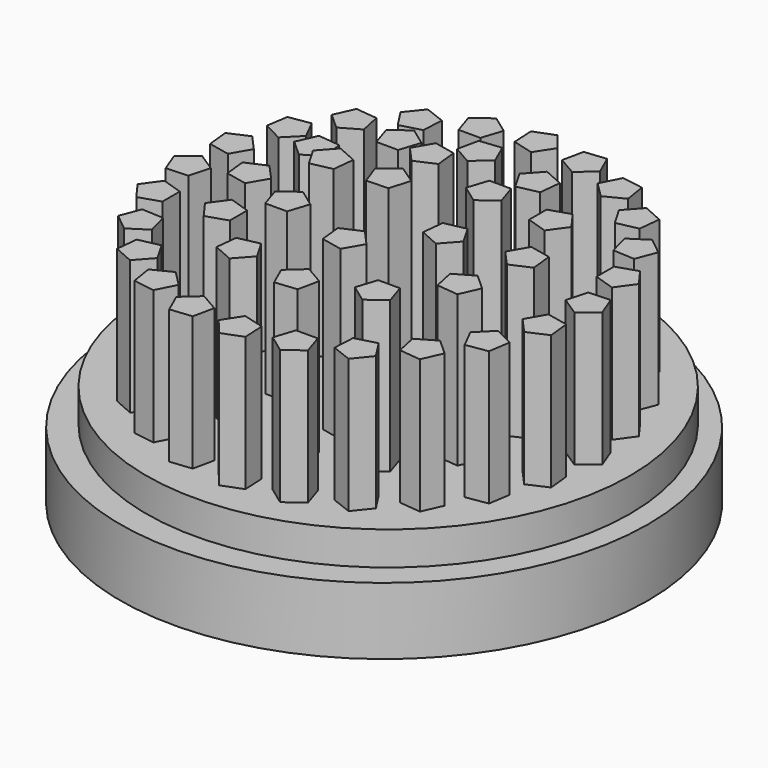
from build123d import *

# Parameters (mm, degrees)
F0_R     = 199.9965426082
F0_R_2   = 183.2680311813
F1_DEPTH = 76.2
F2_DEPTH = 25.4
F3_DEPTH = 101.6
F4_DEPTH = 114.3
F5_DEPTH = 127
F6_DEPTH = 139.7


with BuildPart() as f1:
    # F0 (on Top) → F1 (new body)
    with BuildSketch(Plane.XY):
        with Locations((42.672, 37.5409610569)):
            Circle(F0_R)
        with Locations((42.672, 41.402)):
            Circle(F0_R_2, mode=Mode.SUBTRACT)
        with Locations((42.672, 41.402)):
            Circle(F0_R_2)
        Polygon((-55.7917504575, -80.1388289602), (-70.8706592172, -73.4252662373), (-69.1453207053, -57.0097668285), (-53.0000941032, -53.5779929746), (-44.7471338189, -67.8725394999), align=None, mode=Mode.SUBTRACT)
        Polygon((-20.9795982277, -101.4817195119), (-37.2823035241, -98.8996246577), (-39.8643983783, -82.5969193613), (-25.1575154639, -75.1033882337), (-13.4860671001, -86.7748365975), align=None, mode=Mode.SUBTRACT)
        Polygon((18.170305232, -113.0873207053), (1.7548058233, -114.8126592172), (-4.9587568996, -99.7337504575), (7.3075325607, -88.6891338189), (21.602079086, -96.9420941032), align=None, mode=Mode.SUBTRACT)
        Polygon((-83.8937608126, -50.5131317706), (-96.7212703227, -40.1256193837), (-90.8060774131, -24.7160150196), (-74.322777635, -25.5798681562), (-70.0507310349, -41.5233631201), align=None, mode=Mode.SUBTRACT)
        Polygon((-103.3705237282, -14.6235702478), (-113.0724604139, -1.27), (-103.3705237282, 12.0835702478), (-87.6724604139, 6.9829602843), (-87.6724604139, -9.5229602843), align=None, mode=Mode.SUBTRACT)
        Polygon((-41.8367113977, -27.692685827), (-51.5386480835, -14.3391155791), (-41.8367113977, -0.9855453313), (-26.1386480835, -6.0861552948), (-26.1386480835, -22.5920758634), align=None, mode=Mode.SUBTRACT)
        Polygon((4.032652002, -60.6901088915), (-11.0462567577, -53.9765461686), (-9.3209182459, -37.5610467598), (6.8243083562, -34.1292729059), (15.0772686406, -48.4238194312), align=None, mode=Mode.SUBTRACT)
        Polygon((-65.062033825, 23.8186025062), (-66.7873723369, 40.2341019149), (-51.7084635772, 46.9476646379), (-40.6638469386, 34.6813751776), (-48.9168072229, 20.3868286523), align=None, mode=Mode.SUBTRACT)
        Polygon((13.3535702478, 4.3388379885), (8.2529602843, -11.3592253257), (-8.2529602843, -11.3592253257), (-13.3535702478, 4.3388379885), (0, 14.0407746743), align=None, mode=Mode.SUBTRACT)
        Polygon((58.9899586993, -114.1647299983), (43.5803543351, -120.0799229079), (33.1928419482, -107.2524133978), (42.1826105987, -93.4093836201), (58.1261055626, -97.6814302202), align=None, mode=Mode.SUBTRACT)
        Polygon((98.6975702478, -104.6405237282), (85.344, -114.3424604139), (71.9904297522, -104.6405237282), (77.0910397157, -88.9424604139), (93.5969602843, -88.9424604139), align=None, mode=Mode.SUBTRACT)
        Polygon((134.5871317706, -85.1637608126), (124.1996193837, -97.9912703227), (108.7900150196, -92.0760774131), (109.6538681562, -75.592777635), (125.5973631201, -71.3207310349), align=None, mode=Mode.SUBTRACT)
        Polygon((60.2553974938, -66.332033825), (43.8398980851, -68.0573723369), (37.1263353621, -52.9784635772), (49.3926248224, -41.9338469386), (63.6871713477, -50.1868072229), align=None, mode=Mode.SUBTRACT)
        Polygon((62.9020813247, -29.0809219558), (46.7568547226, -25.6491481019), (45.0315162107, -9.2336486931), (60.1104249704, -2.5200859702), (71.155041609, -14.7863754305), align=None, mode=Mode.SUBTRACT)
        Polygon((111.766685827, -43.1067113977), (98.4131155791, -52.8086480835), (85.0595453313, -43.1067113977), (90.1601552948, -27.4086480835), (106.6660758634, -27.4086480835), align=None, mode=Mode.SUBTRACT)
        Polygon((144.7641088915, 2.762652002), (138.0505461686, -12.3162567577), (121.6350467598, -10.5909182459), (118.2032729059, 5.5543083562), (132.4978194312, 13.8072686406), align=None, mode=Mode.SUBTRACT)
        Polygon((113.827041609, 23.6803033699), (102.7824249704, 11.4140139096), (87.7035162107, 18.1275766326), (89.4288547226, 34.5430760413), (105.5740813247, 37.9748498952), align=None, mode=Mode.SUBTRACT)
        Polygon((164.2128289602, -57.0617504575), (157.4992662373, -72.1406592172), (141.0837668285, -70.4153207053), (137.6519929746, -54.2700941032), (151.9465394999, -46.0171338189), align=None, mode=Mode.SUBTRACT)
        Polygon((185.5557195119, -22.2495982277), (182.9736246577, -38.5523035241), (166.6709193613, -41.1343983783), (159.1773882337, -26.4275154639), (170.8488365975, -14.7560671001), align=None, mode=Mode.SUBTRACT)
        Polygon((197.1613207053, 16.900305232), (198.8866592172, 0.4848058233), (183.8077504575, -6.2287568996), (172.7631338189, 6.0375325607), (181.0160941032, 20.332079086), align=None, mode=Mode.SUBTRACT)
        Polygon((-112.8947299983, 25.0840413007), (-118.8099229079, 40.4936456649), (-105.9824133978, 50.8811580518), (-92.1393836201, 41.8913894013), (-96.4114302202, 25.9478944374), align=None, mode=Mode.SUBTRACT)
        Polygon((-111.8173207053, 65.903694768), (-113.5426592172, 82.3191941767), (-98.4637504575, 89.0327568996), (-87.4191338189, 76.7664674393), (-95.6720941032, 62.471920914), align=None, mode=Mode.SUBTRACT)
        Polygon((-100.2117195119, 105.0535982277), (-97.6296246577, 121.3563035241), (-81.3269193613, 123.9383983783), (-73.8333882337, 109.2315154639), (-85.5048365975, 97.5600671001), align=None, mode=Mode.SUBTRACT)
        Polygon((-28.483041609, 59.1236966301), (-17.4384249704, 71.3899860904), (-2.3595162107, 64.6764233674), (-4.0848547226, 48.2609239587), (-20.2300813247, 44.8291501048), align=None, mode=Mode.SUBTRACT)
        Polygon((-59.4201088915, 80.041347998), (-52.7065461686, 95.1202567577), (-36.2910467598, 93.3949182459), (-32.8592729059, 77.2496916438), (-47.1538194312, 68.9967313594), align=None, mode=Mode.SUBTRACT)
        Polygon((0.2844546687, 125.9107113977), (-4.8161552948, 110.2126480835), (-21.3220758634, 110.2126480835), (-26.422685827, 125.9107113977), (-13.0691155791, 135.6126480835), align=None, mode=Mode.SUBTRACT)
        Polygon((40.3124837893, 92.0376486931), (25.2335750296, 85.3240859702), (14.188958391, 97.5903754305), (22.4419186753, 111.8849219558), (38.5871452774, 108.4531481019), align=None, mode=Mode.SUBTRACT)
        Polygon((-78.8688289602, 139.8657504575), (-72.1552662373, 154.9446592172), (-55.7397668285, 153.2193207053), (-52.3079929746, 137.0740941032), (-66.6025394999, 128.8211338189), align=None, mode=Mode.SUBTRACT)
        Polygon((-49.2431317706, 167.9677608126), (-38.8556193837, 180.7952703227), (-23.4460150196, 174.8800774131), (-24.3098681562, 158.396777635), (-40.2533631201, 154.1247310349), align=None, mode=Mode.SUBTRACT)
        Polygon((25.0886025062, 149.136033825), (41.5041019149, 150.8613723369), (48.2176646379, 135.7824635772), (35.9513751776, 124.7378469386), (21.6568286523, 132.9908072229), align=None, mode=Mode.SUBTRACT)
        Polygon((13.3535702478, 187.4445237282), (8.2529602843, 171.7464604139), (-8.2529602843, 171.7464604139), (-13.3535702478, 187.4445237282), (0, 197.1464604139), align=None, mode=Mode.SUBTRACT)
        Polygon((26.3540413007, 196.9687299983), (41.7636456649, 202.8839229079), (52.1511580518, 190.0564133978), (43.1613894013, 176.2133836201), (27.2178944374, 180.4854302202), align=None, mode=Mode.SUBTRACT)
        Polygon((29.7234064165, 45.158201225), (42.7302493227, 55.3202606339), (56.4142776437, 46.0902669867), (51.8646293429, 30.2237577879), (35.3687637351, 29.6477094674), align=None, mode=Mode.SUBTRACT)
        Polygon((93.5969602843, 94.1632253257), (98.6975702478, 78.4651620115), (85.344, 68.7632253257), (71.9904297522, 78.4651620115), (77.0910397157, 94.1632253257), align=None, mode=Mode.SUBTRACT)
        Polygon((150.406033825, 58.9853974938), (152.1313723369, 42.5698980851), (137.0524635772, 35.8563353621), (126.0078469386, 48.1226248224), (134.2608072229, 62.4171713477), align=None, mode=Mode.SUBTRACT)
        Polygon((81.311347998, 143.4941088915), (96.3902567577, 136.7805461686), (94.6649182459, 120.3650467598), (78.5196916438, 116.9332729059), (70.2667313594, 131.2278194312), align=None, mode=Mode.SUBTRACT)
        Polygon((127.1807113977, 110.496685827), (136.8826480835, 97.1431155791), (127.1807113977, 83.7895453313), (111.4826480835, 88.8901552948), (111.4826480835, 105.3960758634), align=None, mode=Mode.SUBTRACT)
        Polygon((198.2387299983, 57.7199586993), (204.1539229079, 42.3103543351), (191.3264133978, 31.9228419482), (177.4833836201, 40.9126105987), (181.7554302202, 56.8561055626), align=None, mode=Mode.SUBTRACT)
        Polygon((188.7145237282, 97.4275702478), (198.4164604139, 84.074), (188.7145237282, 70.7204297522), (173.0164604139, 75.8210397157), (173.0164604139, 92.3269602843), align=None, mode=Mode.SUBTRACT)
        Polygon((169.2377608126, 133.3171317706), (182.0652703227, 122.9296193837), (176.1500774131, 107.5200150196), (159.666777635, 108.3838681562), (155.3947310349, 124.3273631201), align=None, mode=Mode.SUBTRACT)
        Polygon((67.173694768, 195.8913207053), (83.5891941767, 197.6166592172), (90.3027568996, 182.5377504575), (78.0364674393, 171.4931338189), (63.741920914, 179.7460941032), align=None, mode=Mode.SUBTRACT)
        Polygon((106.3235982277, 184.2857195119), (122.6263035241, 181.7036246577), (125.2083983783, 165.4009193613), (110.5015154639, 157.9073882337), (98.8300671001, 169.5788365975), align=None, mode=Mode.SUBTRACT)
        Polygon((141.1357504575, 162.9428289602), (156.2146592172, 156.2292662373), (154.4893207053, 139.8137668285), (138.3440941032, 136.3819929746), (130.0911338189, 150.6765394999), align=None, mode=Mode.SUBTRACT)
        Polygon((48.2176646379, 135.7824635772), (41.5041019149, 150.8613723369), (25.0886025062, 149.136033825), (21.6568286523, 132.9908072229), (35.9513751776, 124.7378469386), align=None)
        Polygon((94.6649182459, 120.3650467598), (96.3902567577, 136.7805461686), (81.311347998, 143.4941088915), (70.2667313594, 131.2278194312), (78.5196916438, 116.9332729059), align=None)
        Polygon((14.188958391, 97.5903754305), (25.2335750296, 85.3240859702), (40.3124837893, 92.0376486931), (38.5871452774, 108.4531481019), (22.4419186753, 111.8849219558), align=None)
        Polygon((-21.3220758634, 110.2126480835), (-4.8161552948, 110.2126480835), (0.2844546687, 125.9107113977), (-13.0691155791, 135.6126480835), (-26.422685827, 125.9107113977), align=None)
        Polygon((-36.2910467598, 93.3949182459), (-52.7065461686, 95.1202567577), (-59.4201088915, 80.041347998), (-47.1538194312, 68.9967313594), (-32.8592729059, 77.2496916438), align=None)
        Polygon((-51.7084635772, 46.9476646379), (-66.7873723369, 40.2341019149), (-65.062033825, 23.8186025062), (-48.9168072229, 20.3868286523), (-40.6638469386, 34.6813751776), align=None)
        Polygon((-2.3595162107, 64.6764233674), (-17.4384249704, 71.3899860904), (-28.483041609, 59.1236966301), (-20.2300813247, 44.8291501048), (-4.0848547226, 48.2609239587), align=None)
        Polygon((56.4142776437, 46.0902669867), (42.7302493227, 55.3202606339), (29.7234064165, 45.158201225), (35.3687637351, 29.6477094674), (51.8646293429, 30.2237577879), align=None)
        Polygon((-8.2529602843, -11.3592253257), (8.2529602843, -11.3592253257), (13.3535702478, 4.3388379885), (0, 14.0407746743), (-13.3535702478, 4.3388379885), align=None)
        Polygon((-9.3209182459, -37.5610467598), (-11.0462567577, -53.9765461686), (4.032652002, -60.6901088915), (15.0772686406, -48.4238194312), (6.8243083562, -34.1292729059), align=None)
        Polygon((37.1263353621, -52.9784635772), (43.8398980851, -68.0573723369), (60.2553974938, -66.332033825), (63.6871713477, -50.1868072229), (49.3926248224, -41.9338469386), align=None)
        Polygon((45.0315162107, -9.2336486931), (46.7568547226, -25.6491481019), (62.9020813247, -29.0809219558), (71.155041609, -14.7863754305), (60.1104249704, -2.5200859702), align=None)
        Polygon((85.0595453313, -43.1067113977), (98.4131155791, -52.8086480835), (111.766685827, -43.1067113977), (106.6660758634, -27.4086480835), (90.1601552948, -27.4086480835), align=None)
        Polygon((87.7035162107, 18.1275766326), (102.7824249704, 11.4140139096), (113.827041609, 23.6803033699), (105.5740813247, 37.9748498952), (89.4288547226, 34.5430760413), align=None)
        Polygon((137.0524635772, 35.8563353621), (152.1313723369, 42.5698980851), (150.406033825, 58.9853974938), (134.2608072229, 62.4171713477), (126.0078469386, 48.1226248224), align=None)
        Polygon((85.344, 68.7632253257), (98.6975702478, 78.4651620115), (93.5969602843, 94.1632253257), (77.0910397157, 94.1632253257), (71.9904297522, 78.4651620115), align=None)
        Polygon((127.1807113977, 83.7895453313), (136.8826480835, 97.1431155791), (127.1807113977, 110.496685827), (111.4826480835, 105.3960758634), (111.4826480835, 88.8901552948), align=None)
        Polygon((125.2083983783, 165.4009193613), (122.6263035241, 181.7036246577), (106.3235982277, 184.2857195119), (98.8300671001, 169.5788365975), (110.5015154639, 157.9073882337), align=None)
        Polygon((52.1511580518, 190.0564133978), (41.7636456649, 202.8839229079), (26.3540413007, 196.9687299983), (27.2178944374, 180.4854302202), (43.1613894013, 176.2133836201), align=None)
        Polygon((90.3027568996, 182.5377504575), (83.5891941767, 197.6166592172), (67.173694768, 195.8913207053), (63.741920914, 179.7460941032), (78.0364674393, 171.4931338189), align=None)
        Polygon((-8.2529602843, 171.7464604139), (8.2529602843, 171.7464604139), (13.3535702478, 187.4445237282), (0, 197.1464604139), (-13.3535702478, 187.4445237282), align=None)
        Polygon((-23.4460150196, 174.8800774131), (-38.8556193837, 180.7952703227), (-49.2431317706, 167.9677608126), (-40.2533631201, 154.1247310349), (-24.3098681562, 158.396777635), align=None)
        Polygon((-55.7397668285, 153.2193207053), (-72.1552662373, 154.9446592172), (-78.8688289602, 139.8657504575), (-66.6025394999, 128.8211338189), (-52.3079929746, 137.0740941032), align=None)
        Polygon((-81.3269193613, 123.9383983783), (-97.6296246577, 121.3563035241), (-100.2117195119, 105.0535982277), (-85.5048365975, 97.5600671001), (-73.8333882337, 109.2315154639), align=None)
        Polygon((-98.4637504575, 89.0327568996), (-113.5426592172, 82.3191941767), (-111.8173207053, 65.903694768), (-95.6720941032, 62.471920914), (-87.4191338189, 76.7664674393), align=None)
        Polygon((-105.9824133978, 50.8811580518), (-118.8099229079, 40.4936456649), (-112.8947299983, 25.0840413007), (-96.4114302202, 25.9478944374), (-92.1393836201, 41.8913894013), align=None)
        Polygon((-103.3705237282, 12.0835702478), (-113.0724604139, -1.27), (-103.3705237282, -14.6235702478), (-87.6724604139, -9.5229602843), (-87.6724604139, 6.9829602843), align=None)
        Polygon((-41.8367113977, -0.9855453313), (-51.5386480835, -14.3391155791), (-41.8367113977, -27.692685827), (-26.1386480835, -22.5920758634), (-26.1386480835, -6.0861552948), align=None)
        Polygon((-90.8060774131, -24.7160150196), (-96.7212703227, -40.1256193837), (-83.8937608126, -50.5131317706), (-70.0507310349, -41.5233631201), (-74.322777635, -25.5798681562), align=None)
        Polygon((-69.1453207053, -57.0097668285), (-70.8706592172, -73.4252662373), (-55.7917504575, -80.1388289602), (-44.7471338189, -67.8725394999), (-53.0000941032, -53.5779929746), align=None)
        Polygon((-39.8643983783, -82.5969193613), (-37.2823035241, -98.8996246577), (-20.9795982277, -101.4817195119), (-13.4860671001, -86.7748365975), (-25.1575154639, -75.1033882337), align=None)
        Polygon((-4.9587568996, -99.7337504575), (1.7548058233, -114.8126592172), (18.170305232, -113.0873207053), (21.602079086, -96.9420941032), (7.3075325607, -88.6891338189), align=None)
        Polygon((33.1928419482, -107.2524133978), (43.5803543351, -120.0799229079), (58.9899586993, -114.1647299983), (58.1261055626, -97.6814302202), (42.1826105987, -93.4093836201), align=None)
        Polygon((71.9904297522, -104.6405237282), (85.344, -114.3424604139), (98.6975702478, -104.6405237282), (93.5969602843, -88.9424604139), (77.0910397157, -88.9424604139), align=None)
        Polygon((108.7900150196, -92.0760774131), (124.1996193837, -97.9912703227), (134.5871317706, -85.1637608126), (125.5973631201, -71.3207310349), (109.6538681562, -75.592777635), align=None)
        Polygon((141.0837668285, -70.4153207053), (157.4992662373, -72.1406592172), (164.2128289602, -57.0617504575), (151.9465394999, -46.0171338189), (137.6519929746, -54.2700941032), align=None)
        Polygon((166.6709193613, -41.1343983783), (182.9736246577, -38.5523035241), (185.5557195119, -22.2495982277), (170.8488365975, -14.7560671001), (159.1773882337, -26.4275154639), align=None)
        Polygon((183.8077504575, -6.2287568996), (198.8866592172, 0.4848058233), (197.1613207053, 16.900305232), (181.0160941032, 20.332079086), (172.7631338189, 6.0375325607), align=None)
        Polygon((121.6350467598, -10.5909182459), (138.0505461686, -12.3162567577), (144.7641088915, 2.762652002), (132.4978194312, 13.8072686406), (118.2032729059, 5.5543083562), align=None)
        Polygon((191.3264133978, 31.9228419482), (204.1539229079, 42.3103543351), (198.2387299983, 57.7199586993), (181.7554302202, 56.8561055626), (177.4833836201, 40.9126105987), align=None)
        Polygon((188.7145237282, 70.7204297522), (198.4164604139, 84.074), (188.7145237282, 97.4275702478), (173.0164604139, 92.3269602843), (173.0164604139, 75.8210397157), align=None)
        Polygon((176.1500774131, 107.5200150196), (182.0652703227, 122.9296193837), (169.2377608126, 133.3171317706), (155.3947310349, 124.3273631201), (159.666777635, 108.3838681562), align=None)
        Polygon((154.4893207053, 139.8137668285), (156.2146592172, 156.2292662373), (141.1357504575, 162.9428289602), (130.0911338189, 150.6765394999), (138.3440941032, 136.3819929746), align=None)
    extrude(amount=-F1_DEPTH)

    # F0 (on Top) → F2 (cut)
    with BuildSketch(Plane.XY):
        with Locations((42.672, 37.5409610569)):
            Circle(F0_R)
        with Locations((42.672, 41.402)):
            Circle(F0_R_2, mode=Mode.SUBTRACT)
    extrude(amount=-F2_DEPTH, mode=Mode.SUBTRACT)

    # F0 (on Top) → F3 (join)
    with BuildSketch(Plane.XY):
        Polygon((-81.3269193613, 123.9383983783), (-97.6296246577, 121.3563035241), (-100.2117195119, 105.0535982277), (-85.5048365975, 97.5600671001), (-73.8333882337, 109.2315154639), align=None)
        Polygon((-55.7397668285, 153.2193207053), (-72.1552662373, 154.9446592172), (-78.8688289602, 139.8657504575), (-66.6025394999, 128.8211338189), (-52.3079929746, 137.0740941032), align=None)
        Polygon((-23.4460150196, 174.8800774131), (-38.8556193837, 180.7952703227), (-49.2431317706, 167.9677608126), (-40.2533631201, 154.1247310349), (-24.3098681562, 158.396777635), align=None)
        Polygon((-8.2529602843, 171.7464604139), (8.2529602843, 171.7464604139), (13.3535702478, 187.4445237282), (0, 197.1464604139), (-13.3535702478, 187.4445237282), align=None)
        Polygon((52.1511580518, 190.0564133978), (41.7636456649, 202.8839229079), (26.3540413007, 196.9687299983), (27.2178944374, 180.4854302202), (43.1613894013, 176.2133836201), align=None)
        Polygon((90.3027568996, 182.5377504575), (83.5891941767, 197.6166592172), (67.173694768, 195.8913207053), (63.741920914, 179.7460941032), (78.0364674393, 171.4931338189), align=None)
        Polygon((125.2083983783, 165.4009193613), (122.6263035241, 181.7036246577), (106.3235982277, 184.2857195119), (98.8300671001, 169.5788365975), (110.5015154639, 157.9073882337), align=None)
        Polygon((154.4893207053, 139.8137668285), (156.2146592172, 156.2292662373), (141.1357504575, 162.9428289602), (130.0911338189, 150.6765394999), (138.3440941032, 136.3819929746), align=None)
        Polygon((176.1500774131, 107.5200150196), (182.0652703227, 122.9296193837), (169.2377608126, 133.3171317706), (155.3947310349, 124.3273631201), (159.666777635, 108.3838681562), align=None)
        Polygon((188.7145237282, 70.7204297522), (198.4164604139, 84.074), (188.7145237282, 97.4275702478), (173.0164604139, 92.3269602843), (173.0164604139, 75.8210397157), align=None)
        Polygon((191.3264133978, 31.9228419482), (204.1539229079, 42.3103543351), (198.2387299983, 57.7199586993), (181.7554302202, 56.8561055626), (177.4833836201, 40.9126105987), align=None)
        Polygon((183.8077504575, -6.2287568996), (198.8866592172, 0.4848058233), (197.1613207053, 16.900305232), (181.0160941032, 20.332079086), (172.7631338189, 6.0375325607), align=None)
        Polygon((166.6709193613, -41.1343983783), (182.9736246577, -38.5523035241), (185.5557195119, -22.2495982277), (170.8488365975, -14.7560671001), (159.1773882337, -26.4275154639), align=None)
        Polygon((141.0837668285, -70.4153207053), (157.4992662373, -72.1406592172), (164.2128289602, -57.0617504575), (151.9465394999, -46.0171338189), (137.6519929746, -54.2700941032), align=None)
        Polygon((108.7900150196, -92.0760774131), (124.1996193837, -97.9912703227), (134.5871317706, -85.1637608126), (125.5973631201, -71.3207310349), (109.6538681562, -75.592777635), align=None)
        Polygon((71.9904297522, -104.6405237282), (85.344, -114.3424604139), (98.6975702478, -104.6405237282), (93.5969602843, -88.9424604139), (77.0910397157, -88.9424604139), align=None)
        Polygon((33.1928419482, -107.2524133978), (43.5803543351, -120.0799229079), (58.9899586993, -114.1647299983), (58.1261055626, -97.6814302202), (42.1826105987, -93.4093836201), align=None)
        Polygon((-4.9587568996, -99.7337504575), (1.7548058233, -114.8126592172), (18.170305232, -113.0873207053), (21.602079086, -96.9420941032), (7.3075325607, -88.6891338189), align=None)
        Polygon((-39.8643983783, -82.5969193613), (-37.2823035241, -98.8996246577), (-20.9795982277, -101.4817195119), (-13.4860671001, -86.7748365975), (-25.1575154639, -75.1033882337), align=None)
        Polygon((-69.1453207053, -57.0097668285), (-70.8706592172, -73.4252662373), (-55.7917504575, -80.1388289602), (-44.7471338189, -67.8725394999), (-53.0000941032, -53.5779929746), align=None)
        Polygon((-90.8060774131, -24.7160150196), (-96.7212703227, -40.1256193837), (-83.8937608126, -50.5131317706), (-70.0507310349, -41.5233631201), (-74.322777635, -25.5798681562), align=None)
        Polygon((-103.3705237282, 12.0835702478), (-113.0724604139, -1.27), (-103.3705237282, -14.6235702478), (-87.6724604139, -9.5229602843), (-87.6724604139, 6.9829602843), align=None)
        Polygon((-105.9824133978, 50.8811580518), (-118.8099229079, 40.4936456649), (-112.8947299983, 25.0840413007), (-96.4114302202, 25.9478944374), (-92.1393836201, 41.8913894013), align=None)
        Polygon((-98.4637504575, 89.0327568996), (-113.5426592172, 82.3191941767), (-111.8173207053, 65.903694768), (-95.6720941032, 62.471920914), (-87.4191338189, 76.7664674393), align=None)
    extrude(amount=F3_DEPTH)

    # F0 (on Top) → F4 (join)
    with BuildSketch(Plane.XY):
        Polygon((85.0595453313, -43.1067113977), (98.4131155791, -52.8086480835), (111.766685827, -43.1067113977), (106.6660758634, -27.4086480835), (90.1601552948, -27.4086480835), align=None)
        Polygon((37.1263353621, -52.9784635772), (43.8398980851, -68.0573723369), (60.2553974938, -66.332033825), (63.6871713477, -50.1868072229), (49.3926248224, -41.9338469386), align=None)
        Polygon((-9.3209182459, -37.5610467598), (-11.0462567577, -53.9765461686), (4.032652002, -60.6901088915), (15.0772686406, -48.4238194312), (6.8243083562, -34.1292729059), align=None)
        Polygon((-41.8367113977, -0.9855453313), (-51.5386480835, -14.3391155791), (-41.8367113977, -27.692685827), (-26.1386480835, -22.5920758634), (-26.1386480835, -6.0861552948), align=None)
        Polygon((-51.7084635772, 46.9476646379), (-66.7873723369, 40.2341019149), (-65.062033825, 23.8186025062), (-48.9168072229, 20.3868286523), (-40.6638469386, 34.6813751776), align=None)
        Polygon((-36.2910467598, 93.3949182459), (-52.7065461686, 95.1202567577), (-59.4201088915, 80.041347998), (-47.1538194312, 68.9967313594), (-32.8592729059, 77.2496916438), align=None)
        Polygon((-21.3220758634, 110.2126480835), (-4.8161552948, 110.2126480835), (0.2844546687, 125.9107113977), (-13.0691155791, 135.6126480835), (-26.422685827, 125.9107113977), align=None)
        Polygon((48.2176646379, 135.7824635772), (41.5041019149, 150.8613723369), (25.0886025062, 149.136033825), (21.6568286523, 132.9908072229), (35.9513751776, 124.7378469386), align=None)
        Polygon((94.6649182459, 120.3650467598), (96.3902567577, 136.7805461686), (81.311347998, 143.4941088915), (70.2667313594, 131.2278194312), (78.5196916438, 116.9332729059), align=None)
        Polygon((127.1807113977, 83.7895453313), (136.8826480835, 97.1431155791), (127.1807113977, 110.496685827), (111.4826480835, 105.3960758634), (111.4826480835, 88.8901552948), align=None)
        Polygon((137.0524635772, 35.8563353621), (152.1313723369, 42.5698980851), (150.406033825, 58.9853974938), (134.2608072229, 62.4171713477), (126.0078469386, 48.1226248224), align=None)
        Polygon((121.6350467598, -10.5909182459), (138.0505461686, -12.3162567577), (144.7641088915, 2.762652002), (132.4978194312, 13.8072686406), (118.2032729059, 5.5543083562), align=None)
    extrude(amount=F4_DEPTH)

    # F0 (on Top) → F5 (join)
    with BuildSketch(Plane.XY):
        Polygon((-2.3595162107, 64.6764233674), (-17.4384249704, 71.3899860904), (-28.483041609, 59.1236966301), (-20.2300813247, 44.8291501048), (-4.0848547226, 48.2609239587), align=None)
        Polygon((14.188958391, 97.5903754305), (25.2335750296, 85.3240859702), (40.3124837893, 92.0376486931), (38.5871452774, 108.4531481019), (22.4419186753, 111.8849219558), align=None)
        Polygon((85.344, 68.7632253257), (98.6975702478, 78.4651620115), (93.5969602843, 94.1632253257), (77.0910397157, 94.1632253257), (71.9904297522, 78.4651620115), align=None)
        Polygon((87.7035162107, 18.1275766326), (102.7824249704, 11.4140139096), (113.827041609, 23.6803033699), (105.5740813247, 37.9748498952), (89.4288547226, 34.5430760413), align=None)
        Polygon((45.0315162107, -9.2336486931), (46.7568547226, -25.6491481019), (62.9020813247, -29.0809219558), (71.155041609, -14.7863754305), (60.1104249704, -2.5200859702), align=None)
        Polygon((-8.2529602843, -11.3592253257), (8.2529602843, -11.3592253257), (13.3535702478, 4.3388379885), (0, 14.0407746743), (-13.3535702478, 4.3388379885), align=None)
    extrude(amount=F5_DEPTH)

    # F0 (on Top) → F6 (join)
    with BuildSketch(Plane.XY):
        Polygon((56.4142776437, 46.0902669867), (42.7302493227, 55.3202606339), (29.7234064165, 45.158201225), (35.3687637351, 29.6477094674), (51.8646293429, 30.2237577879), align=None)
    extrude(amount=F6_DEPTH)


solid = f1.part
